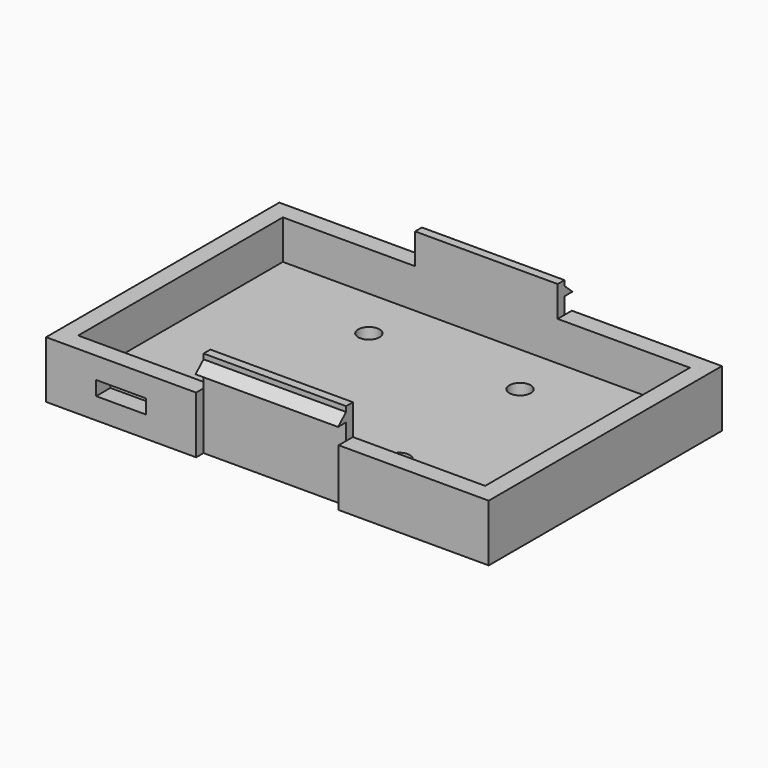
from build123d import *

# Parameters (mm, degrees)
F0_W           = 62.1
F0_H           = 40.9
F1_DEPTH       = 8
F2_T           = -2.5
F3_W           = 20
F3_H           = 12.3
F4_DEPTH       = 2.6
F5_W           = 20
F5_H           = 10.3
F6_DEPTH       = 1.4
F8_DEPTH       = 20
F9_W           = 81.3839174807
F9_H           = 28.7151690573
F10_DEPTH      = 2.501
F10_DEPTH_BACK = 9.801
F12_W          = 7
F12_H          = 2
F13_DEPTH      = 2.5
F14_R          = 1.5
F15_DEPTH      = 2.5


with BuildPart() as f1:
    # F0 (on Top) → F1 (new body)
    with BuildSketch(Plane.XY):
        Rectangle(F0_W, F0_H)
    extrude(amount=F1_DEPTH)

    # F2
    f2_openings = [f1.faces().sort_by_distance(p)[0] for p in [
        (0, 0, 8),
    ]]
    offset(amount=F2_T, openings=f2_openings)

    # F3 (on face) → F4 (join)
    with BuildSketch(Plane.XZ.offset(-17.95)):
        with Locations((0, 6.15)):
            Rectangle(F3_W, F3_H)
    extrude(amount=-F4_DEPTH)

    # F5 (on face) → F6 (cut)
    with BuildSketch(Plane(origin=(0, 20.55, 0), x_dir=(-1, 0, 0), z_dir=(0, 1, 0))):
        with Locations((0, 5.15)):
            Rectangle(F5_W, F5_H)
    extrude(amount=-F6_DEPTH, mode=Mode.SUBTRACT)

    # F7 (on face) → F8 (cut, through all)
    with BuildSketch(Plane.YZ.offset(10)):
        Polygon((19.15, 11.5828160197), (20.55, 10.3), (20.55, 12.3), (19.15, 12.3), align=None)
    extrude(amount=-F8_DEPTH, mode=Mode.SUBTRACT)

    # F9 (on face) → F10 (cut, two sides)
    with BuildSketch(Plane.XY.offset(2.5)) as f10_sk:
        with Locations((-1.038512215, -14.3575845286)):
            Rectangle(F9_W, F9_H)
    extrude(amount=-F10_DEPTH, mode=Mode.SUBTRACT)
    extrude(f10_sk.sketch, amount=F10_DEPTH_BACK, mode=Mode.SUBTRACT)

    # F11: F1 across plane


with BuildPart() as f1_1:
    add(f1.part)
    add(f1.part.mirror(Plane.XZ))

    # F12 (on face) → F13 (cut, through all)
    with BuildSketch(Plane.XZ.offset(20.45)):
        with Locations((-20.525, 4)):
            Rectangle(F12_W, F12_H)
    extrude(amount=-F13_DEPTH, mode=Mode.SUBTRACT)

    # F14 (on face) → F15 (cut, through all)
    with BuildSketch(Plane(origin=(0, 0, 0), x_dir=(1, 0, 0), z_dir=(0, 0, -1))):
        with Locations((-10.6066017178, 10.6066017178)):
            Circle(F14_R)
        with Locations((10.6066017178, 10.6066017178)):
            Circle(F14_R)
        with Locations((10.6066017178, -10.6066017178)):
            Circle(F14_R)
        with Locations((-10.6066017178, -10.6066017178)):
            Circle(F14_R)
    extrude(amount=-F15_DEPTH, mode=Mode.SUBTRACT)


solid = f1_1.part
